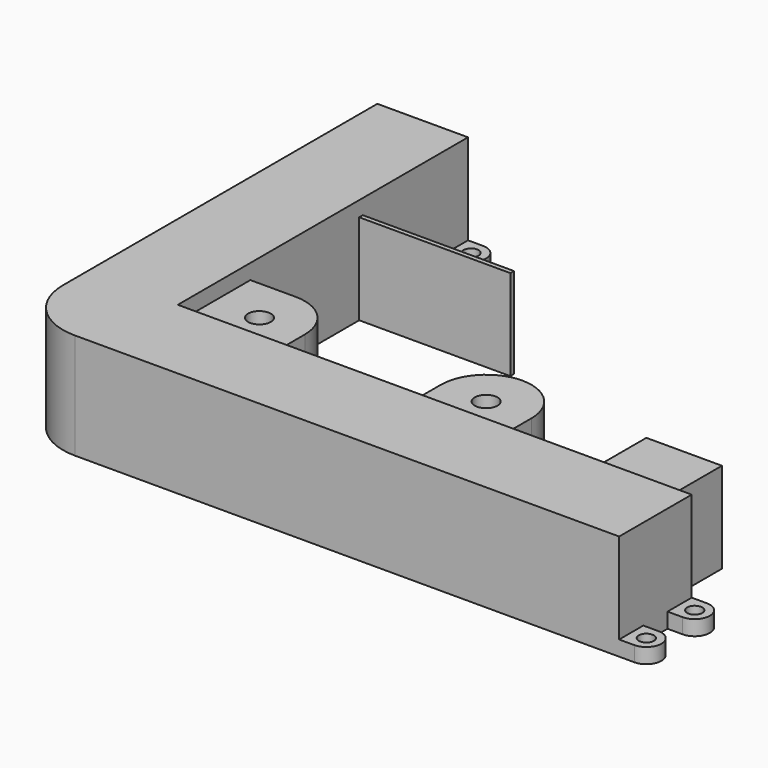
from build123d import *

# Parameters (mm, degrees)
F1_DEPTH = 70
F0_R     = 7.5
F0_W     = 100
F0_H     = 3
F0_W_2   = 50
F0_H_2   = 50
F2_DEPTH = 60
F0_R_2   = 5
F3_DEPTH = 10


with BuildPart() as f1:
    # F0 (on Top) → F1 (new body)
    with BuildSketch(Plane.XY):
        with BuildLine():
            Line((0, 280), (0, 40))
            ThreePointArc((0, 40), (11.715729, 11.715729), (40, 0))
            Line((40, 0), (400, 0))
            Line((400, 0), (400, 20))
            Line((400, 20), (400, 40))
            Line((400, 40), (400, 60))
            Line((400, 60), (380, 60))
            Line((380, 60), (330, 60))
            Line((330, 60), (270, 60))
            Line((270, 60), (210, 60))
            Line((210, 60), (200, 60))
            Line((200, 60), (120, 60))
            Line((120, 60), (60, 60))
            Line((60, 60), (60, 120))
            Line((60, 120), (60, 210))
            Line((60, 210), (60, 213))
            Line((60, 213), (60, 280))
            Line((60, 280), (60, 300))
            Line((60, 300), (0, 300))
            Line((0, 300), (0, 280))
        make_face()
    extrude(amount=F1_DEPTH)

    # F0 (on Top) → F2 (join)
    with BuildSketch(Plane.XY):
        with BuildLine():
            Line((90, 120), (60, 120))
            Line((60, 120), (60, 60))
            Line((60, 60), (120, 60))
            Line((120, 60), (120, 90))
            ThreePointArc((120, 90), (111.213203, 111.213203), (90, 120))
        make_face()
        with Locations((90, 90)):
            Circle(F0_R, mode=Mode.SUBTRACT)
        with BuildLine():
            Line((210, 60), (270, 60))
            Line((270, 60), (270, 90))
            ThreePointArc((270, 90), (240, 120), (210, 90))
            Line((210, 90), (210, 70))
            Line((210, 70), (210, 60))
        make_face()
        with Locations((240, 90)):
            Circle(F0_R, mode=Mode.SUBTRACT)
        with Locations((110, 211.5)):
            Rectangle(F0_W, F0_H)
        with Locations((355, 85)):
            Rectangle(F0_W_2, F0_H_2)
    extrude(amount=F2_DEPTH)

    # F0 (on Top) → F3 (join)
    with BuildSketch(Plane.XY):
        with BuildLine():
            Line((200, 60), (210, 60))
            Line((210, 60), (210, 70))
            ThreePointArc((210, 70), (207.071068, 62.928932), (200, 60))
        make_face()
        with BuildLine():
            Line((400, 60), (400, 40))
            Line((400, 40), (410, 40))
            ThreePointArc((410, 40), (420, 50), (410, 60))
            Line((410, 60), (400, 60))
        make_face()
        with Locations((410, 50)):
            Circle(F0_R_2, mode=Mode.SUBTRACT)
        with BuildLine():
            Line((400, 20), (400, 0))
            Line((400, 0), (410, 0))
            ThreePointArc((410, 0), (420, 10), (410, 20))
            Line((410, 20), (400, 20))
        make_face()
        with Locations((410, 10)):
            Circle(F0_R_2, mode=Mode.SUBTRACT)
        with BuildLine():
            Line((70, 300), (60, 300))
            Line((60, 300), (60, 280))
            Line((60, 280), (70, 280))
            ThreePointArc((70, 280), (80, 290), (70, 300))
        make_face()
        with Locations((70, 290)):
            Circle(F0_R_2, mode=Mode.SUBTRACT)
        with BuildLine():
            Line((-10, 280), (0, 280))
            Line((0, 280), (0, 300))
            Line((0, 300), (-10, 300))
            ThreePointArc((-10, 300), (-20, 290), (-10, 280))
        make_face()
        with Locations((-10, 290)):
            Circle(F0_R_2, mode=Mode.SUBTRACT)
    extrude(amount=F3_DEPTH)


solid = f1.part
